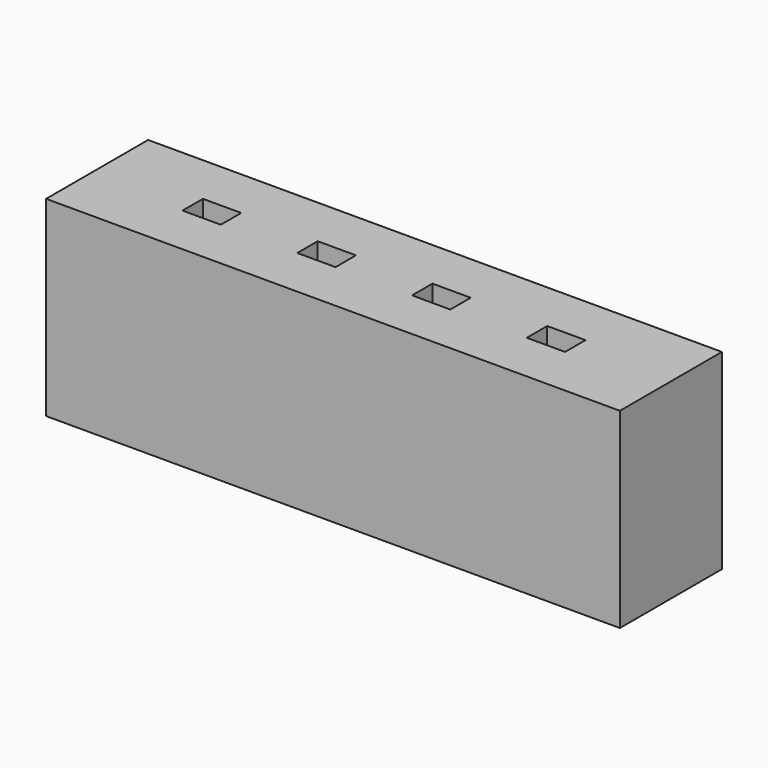
from build123d import *

# Parameters (mm, degrees)
F0_W     = 45
F0_H     = 10
F0_W_2   = 3
F0_H_2   = 2
F1_DEPTH = 15
F2_DEPTH = 5


with BuildPart() as f1:
    # F0 (on Top) → F1 (new body)
    with BuildSketch(Plane.XY):
        Rectangle(F0_W, F0_H)
        with Locations((-13.5, 0)):
            Rectangle(F0_W_2, F0_H_2, mode=Mode.SUBTRACT)
        with Locations((-4.5, 0)):
            Rectangle(F0_W_2, F0_H_2, mode=Mode.SUBTRACT)
        Polygon((3, -1), (3, 0), (3, 1), (6, 1), (6, 0), (6, -1), align=None, mode=Mode.SUBTRACT)
        Polygon((12, -1), (12, 0), (12, 1), (15, 1), (15, -1), align=None, mode=Mode.SUBTRACT)
    extrude(amount=F1_DEPTH)

    # F0 (on Top) → F2 (join)
    with BuildSketch(Plane.XY):
        with Locations((-13.5, 0)):
            Rectangle(F0_W_2, F0_H_2)
        with Locations((-4.5, 0)):
            Rectangle(F0_W_2, F0_H_2)
        Polygon((3, 1), (3, 0), (4.5, 0), (6, 0), (6, 1), align=None)
        Polygon((4.5, 0), (3, 0), (3, -1), (6, -1), (6, 0), align=None)
        Polygon((12, 1), (12, 0), (12, -1), (15, -1), (15, 1), align=None)
    extrude(amount=F2_DEPTH)


solid = f1.part
